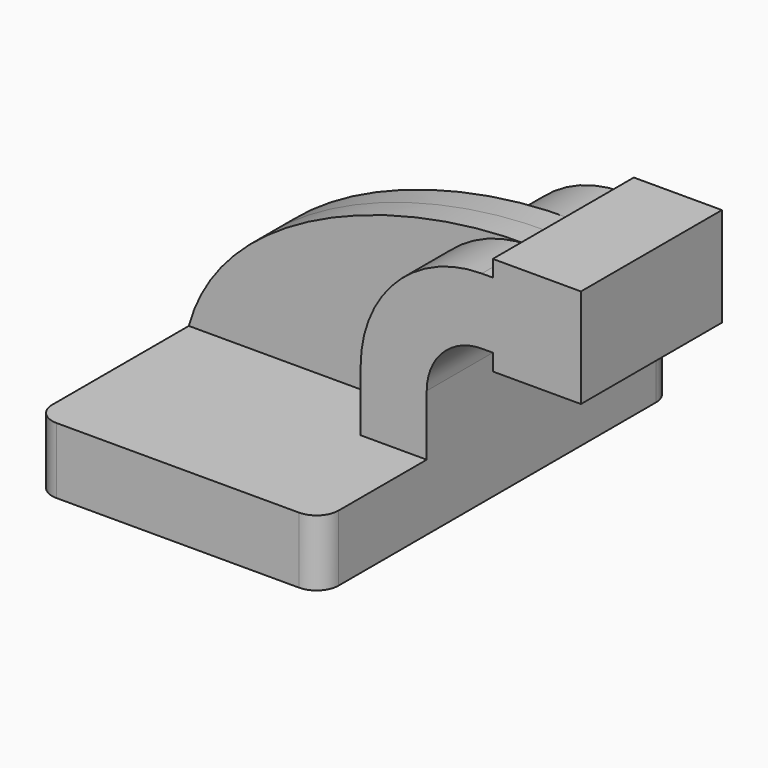
from build123d import *

# Parameters (mm, degrees)
F1_DEPTH = 63.5
F0_W     = 25.4
F0_H     = 19.0499988828
F0_H_2   = 4.7498011172
F0_H_3   = 4.7752
F2_DEPTH = 25.4
F3_DEPTH = 7.9375
F4_R     = 6.35


with BuildPart() as f1:
    # F0 (on Front) → F1 (new body, symmetric)
    with BuildSketch(Plane.XZ):
        Polygon((-41.275, 9.525), (-41.275, -9.525), (41.275, -9.525), (41.275, 9.525), (22.2250011172, 9.525), align=None)
    extrude(amount=F1_DEPTH, both=True)

    # F0 (on Front) → F2 (join, symmetric)
    with BuildSketch(Plane.XZ):
        with BuildLine():
            Line((22.2250011172, 9.525), (41.275, 9.525))
            Line((41.275, 9.525), (41.275, 27.0002))
            ThreePointArc((41.275, 27.0002), (45.9246798487, 38.2255201513), (57.15, 42.8752))
            Line((57.15, 42.8752), (60.325, 42.8752))
            Line((60.325, 42.8752), (60.325, 61.9251988828))
            Line((60.325, 61.9251988828), (57.15, 61.9251988828))
            ThreePointArc((57.15, 61.9251988828), (32.454296457, 51.695903543), (22.2250011172, 27.0002))
            Line((22.2250011172, 27.0002), (22.2250011172, 9.525))
        make_face()
        with Locations((73.025, 52.4001994414)):
            Rectangle(F0_W, F0_H)
        with Locations((73.025, 64.3000994414)):
            Rectangle(F0_W, F0_H_2)
        with Locations((73.025, 40.4876)):
            Rectangle(F0_W, F0_H_3)
    extrude(amount=F2_DEPTH, both=True)

    # F0 (on Front) → F3 (join, symmetric)
    with BuildSketch(Plane.XZ):
        with BuildLine():
            add(Edge.make_bspline(
                [(-41.275, 9.525), (-31.7300852137, 44.8146195103), (19.3697411857, 62.6715747871), (57.15, 61.9251988828)],
                knots=[0, 0, 0, 0, 111.5045356385, 111.5045356385, 111.5045356385, 111.5045356385], degree=3))
            Line((-41.275, 9.525), (22.2250011172, 9.525))
            Line((22.2250011172, 9.525), (22.2250011172, 27.0002))
            ThreePointArc((22.2250011172, 27.0002), (32.454296457, 51.695903543), (57.15, 61.9251988828))
        make_face()
    extrude(amount=F3_DEPTH, both=True)

    # F4
    f4_edges = [f1.edges().sort_by_distance(p)[0] for p in [
        (-41.275, -63.5, 0),
        (41.275, -63.5, 0),
        (41.275, 63.5, 0),
        (-41.275, 63.5, 0),
    ]]
    fillet(f4_edges, radius=F4_R)


solid = f1.part
